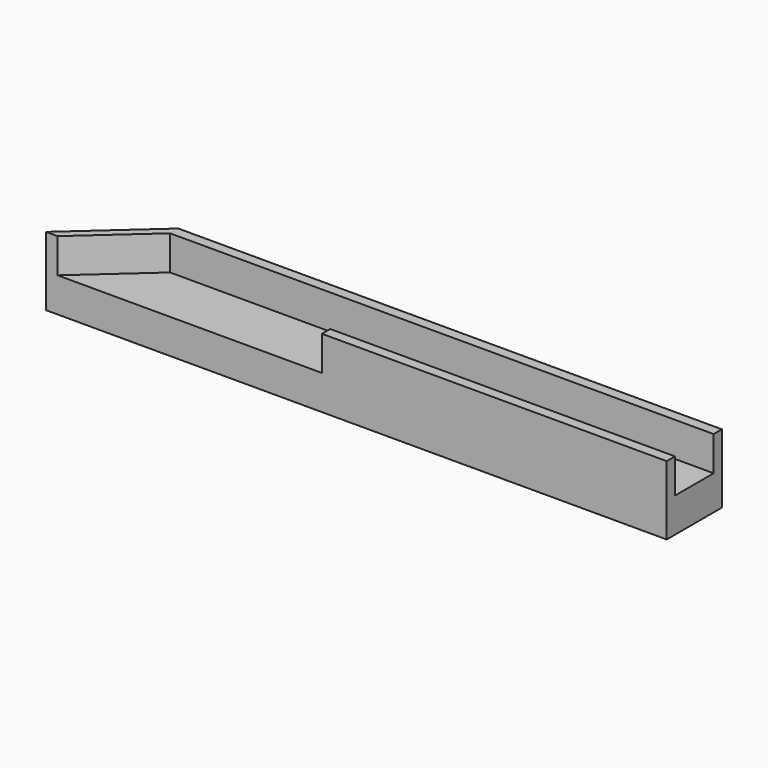
from build123d import *

# Parameters (mm, degrees)
F1_DEPTH = 5
F3_DEPTH = 5


with BuildPart() as f1:
    # F0 (on Top) → F1 (new body, symmetric)
    with BuildSketch(Plane.XY):
        Polygon((45, -5), (45, 5), (-33.81966, 5), (-45, -5), align=None)
    extrude(amount=F1_DEPTH, both=True)

    # F2 (on face) → F3 (cut)
    with BuildSketch(Plane.XY.offset(5)):
        Polygon((-33.81966, 3.5), (-43.322949, -5), (-5, -5), (-5, -3.5), (45, -3.5), (45, 3.5), align=None)
    extrude(amount=-F3_DEPTH, mode=Mode.SUBTRACT)


solid = f1.part
